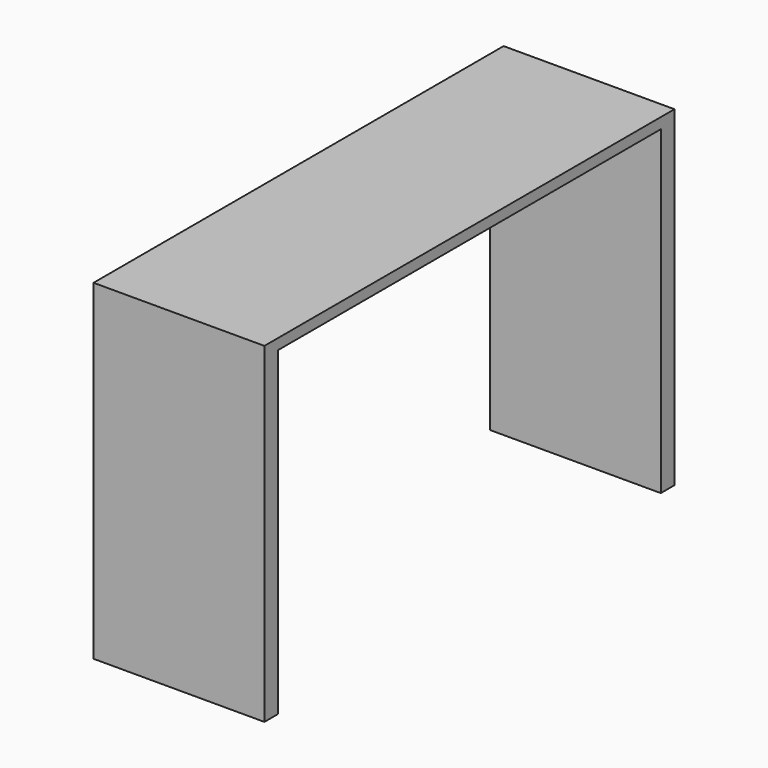
from build123d import *

# Parameters (mm, degrees)
F0_W     = 400
F0_H     = 1200
F1_DEPTH = 25
F2_W     = 400
F2_H     = 40
F3_DEPTH = 750


with BuildPart() as f1:
    # F0 (on Top) → F1 (new body)
    with BuildSketch(Plane.XY):
        with Locations((16.236842, 447.631853)):
            Rectangle(F0_W, F0_H)
    extrude(amount=F1_DEPTH)

    # F2 (on face) → F3 (join)
    with BuildSketch(Plane(origin=(0, 0, 0), x_dir=(1, 0, 0), z_dir=(0, 0, -1))):
        with Locations((16.236842, -1027.631853)):
            Rectangle(F2_W, F2_H)
        with Locations((16.236842, 132.368147)):
            Rectangle(F2_W, F2_H)
    extrude(amount=F3_DEPTH)


solid = f1.part
